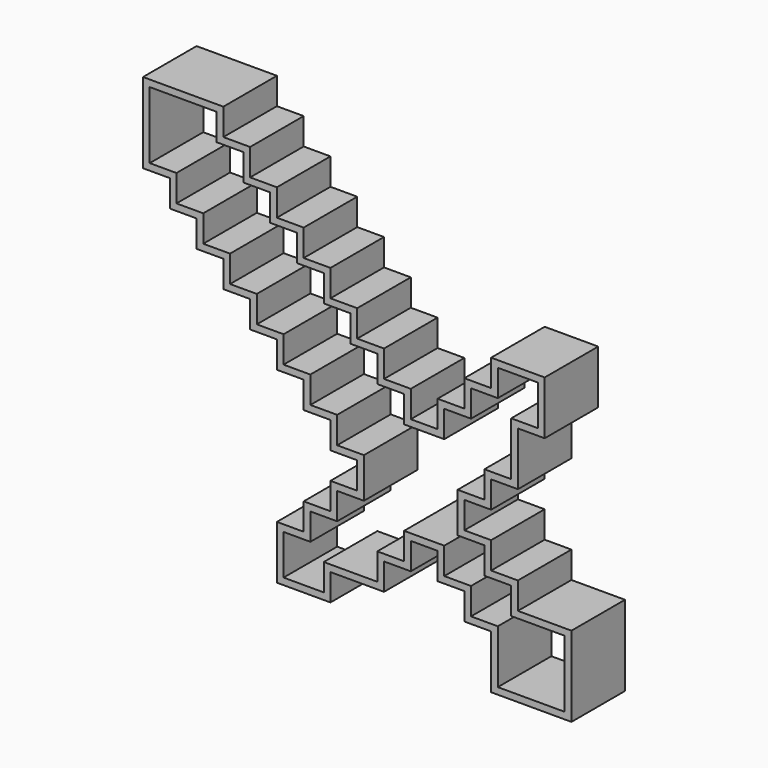
from build123d import *

# Parameters (mm, degrees)
F1_DEPTH = 25.4
F2_T     = -2.54


with BuildPart() as f1:
    # F0 (on Front) → F1 (new body)
    with BuildSketch(Plane.XZ):
        Polygon((-6.8695716643, -40.64), (-6.8695716643, -60.96), (23.6104283357, -60.96), (23.6104283357, -30.48), (3.2904283357, -30.48), (3.2904283357, -20.32), (-6.8695716643, -20.32), (-17.0295716643, -20.32), (-27.1895716643, -20.32), (-27.1895716643, -30.48), (-17.0295716643, -30.48), (-17.0295716643, -40.64), align=None)
        Polygon((-17.0295716643, -20.32), (-6.8695716643, -20.32), (-6.8695716643, -10.16), (-17.0295716643, -10.16), (-17.0295716643, 0), (-6.8695716643, 0), (-6.8695716643, 10.16), (3.2904283357, 10.16), (3.2904283357, 30.48), (13.4504283357, 30.48), (13.4504283357, 50.8), (-6.8695716643, 50.8), (-6.8695716643, 40.64), (-17.0295716643, 40.64), (-17.0295716643, 30.48), (-27.1895716643, 30.48), (-27.1895716643, 20.32), (-37.3495716643, 20.32), (-47.5095716643, 20.32), (-57.6695716643, 20.32), (-77.9895716643, 20.32), (-77.9895716643, 10.16), (-67.8295716643, 10.16), (-67.8295716643, 0), (-57.6695716643, 0), (-57.6695716643, -10.16), (-57.6695716643, -20.32), (-37.3495716643, -20.32), (-27.1895716643, -20.32), align=None)
        Polygon((-37.3495716643, -30.48), (-37.3495716643, -20.32), (-57.6695716643, -20.32), (-57.6695716643, -10.16), (-67.8295716643, -10.16), (-67.8295716643, -20.32), (-77.9895716643, -20.32), (-77.9895716643, -30.48), (-88.1495716643, -30.48), (-88.1495716643, -50.8), (-67.8295716643, -50.8), (-67.8295716643, -40.64), (-47.5095716643, -40.64), (-47.5095716643, -30.48), align=None)
        Polygon((-88.1495716643, 20.32), (-77.9895716643, 20.32), (-57.6695716643, 20.32), (-47.5095716643, 20.32), (-37.3495716643, 20.32), (-37.3495716643, 30.48), (-47.5095716643, 30.48), (-67.8295716643, 30.48), (-88.1495716643, 30.48), align=None)
        Polygon((-98.3095716643, 30.48), (-88.1495716643, 30.48), (-67.8295716643, 30.48), (-47.5095716643, 30.48), (-47.5095716643, 40.64), (-57.6695716643, 40.64), (-77.9895716643, 40.64), (-98.3095716643, 40.64), align=None)
        Polygon((-108.4695716643, 40.64), (-98.3095716643, 40.64), (-77.9895716643, 40.64), (-57.6695716643, 40.64), (-57.6695716643, 50.8), (-67.8295716643, 50.8), (-88.1495716643, 50.8), (-108.4695716643, 50.8), align=None)
        Polygon((-118.6295716643, 50.8), (-108.4695716643, 50.8), (-88.1495716643, 50.8), (-67.8295716643, 50.8), (-67.8295716643, 60.96), (-77.9895716643, 60.96), (-98.3095716643, 60.96), (-118.6295716643, 60.96), align=None)
        Polygon((-128.7895716643, 60.96), (-118.6295716643, 60.96), (-98.3095716643, 60.96), (-77.9895716643, 60.96), (-77.9895716643, 71.12), (-88.1495716643, 71.12), (-88.1495716643, 81.28), (-98.3095716643, 81.28), (-98.3095716643, 91.44), (-108.4695716643, 91.44), (-108.4695716643, 101.6), (-138.9495716643, 101.6), (-138.9495716643, 71.12), (-128.7895716643, 71.12), align=None)
    extrude(amount=F1_DEPTH)

    # F2
    f2_openings = [f1.faces().sort_by_distance(p)[0] for p in [
        (-54.908702, -25.4, 17.55913),
        (-54.908702, 0, 17.55913),
    ]]
    offset(amount=F2_T, openings=f2_openings, kind=Kind.INTERSECTION)


solid = f1.part
